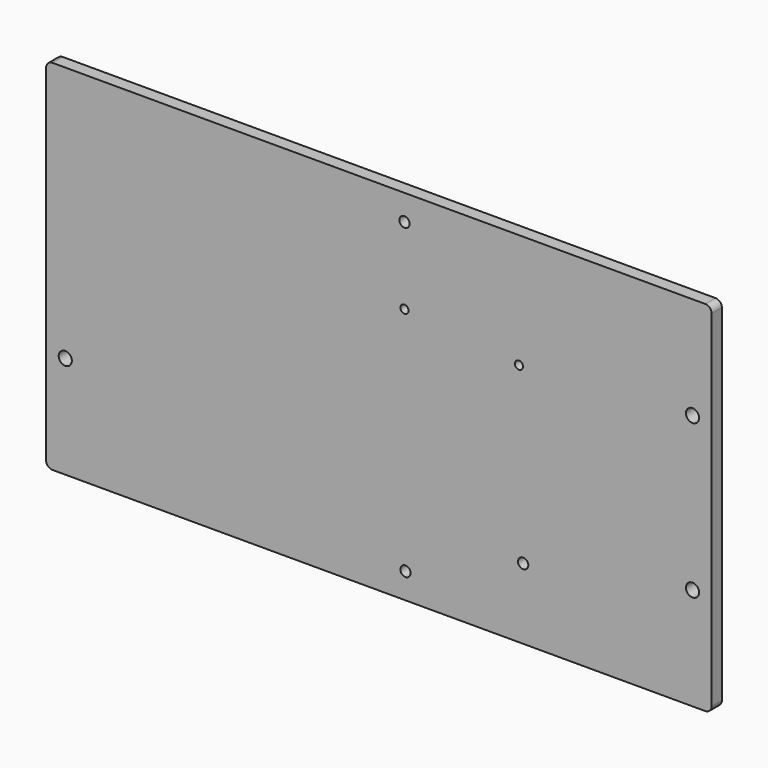
from build123d import *

# Parameters (mm, degrees)
F0_R     = 3.2639
F0_R_2   = 2.54
F0_R_3   = 2.5527
F0_R_4   = 2.0193
F1_DEPTH = 6.35


with BuildPart() as f1:
    # F0 (on Front) → F1 (new body)
    with BuildSketch(Plane.XZ):
        with BuildLine():
            ThreePointArc((0, 3.175), (0.929936, 0.929936), (3.175, 0))
            Line((3.175, 0), (327.025, 0))
            ThreePointArc((327.025, 0), (329.270064, 0.929936), (330.2, 3.175))
            Line((330.2, 3.175), (330.2, 174.625))
            ThreePointArc((330.2, 174.625), (329.270064, 176.870064), (327.025, 177.8))
            Line((327.025, 177.8), (3.175, 177.8))
            ThreePointArc((3.175, 177.8), (0.929936, 176.870064), (0, 174.625))
            Line((0, 174.625), (0, 3.175))
        make_face()
        with Locations((9.525, 50.8)):
            Circle(F0_R, mode=Mode.SUBTRACT)
        with Locations((178.293372, 12.700799)):
            Circle(F0_R_2, mode=Mode.SUBTRACT)
        with Locations((236.667737, 35.126266)):
            Circle(F0_R_3, mode=Mode.SUBTRACT)
        with Locations((320.675, 50.8)):
            Circle(F0_R, mode=Mode.SUBTRACT)
        with Locations((177.8, 127)):
            Circle(F0_R_4, mode=Mode.SUBTRACT)
        with Locations((234.570287, 121.033202)):
            Circle(F0_R_4, mode=Mode.SUBTRACT)
        with Locations((320.675, 127)):
            Circle(F0_R, mode=Mode.SUBTRACT)
        with Locations((177.8, 165.1)):
            Circle(F0_R_2, mode=Mode.SUBTRACT)
    extrude(amount=F1_DEPTH)


solid = f1.part
